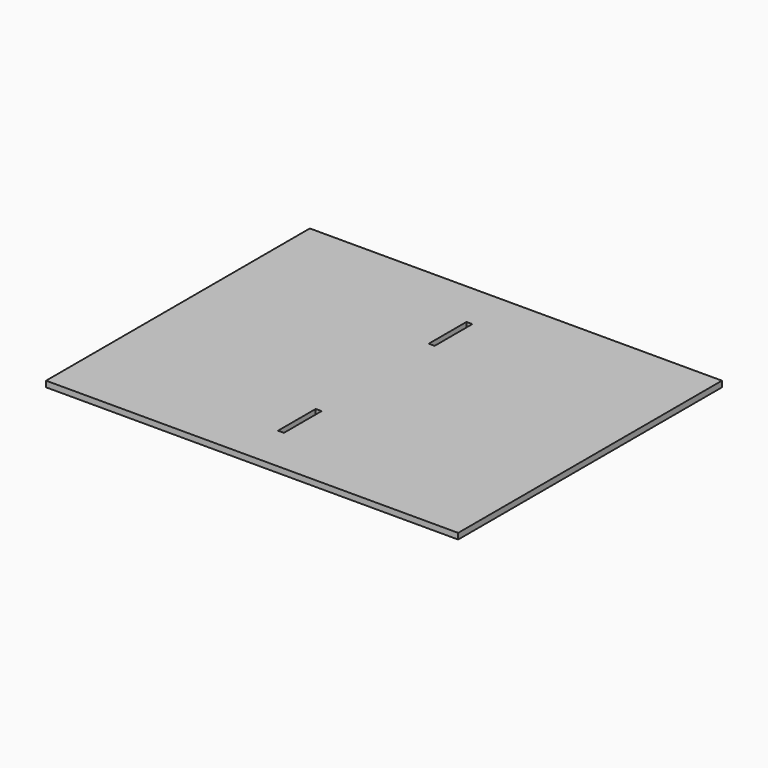
from build123d import *

# Parameters (mm, degrees)
F0_W     = 3.175
F0_H     = 25.4
F1_DEPTH = 3.175


with BuildPart() as f1:
    # F0 (on Top) → F1 (new body)
    with BuildSketch(Plane.XY):
        Polygon((118.969828, 85.555037), (-103.280172, 85.555037), (-103.280172, -3.344963), (99.919828, -3.344963), (118.969828, -3.344963), align=None)
        with Locations((3.082328, 47.455037)):
            Rectangle(F0_W, F0_H, mode=Mode.SUBTRACT)
        Polygon((99.919828, -3.344963), (-103.280172, -3.344963), (-103.280172, -92.244963), (118.969828, -92.244963), (118.969828, -3.344963), align=None)
        with Locations((3.082328, -54.144963)):
            Rectangle(F0_W, F0_H, mode=Mode.SUBTRACT)
    extrude(amount=F1_DEPTH)


solid = f1.part
